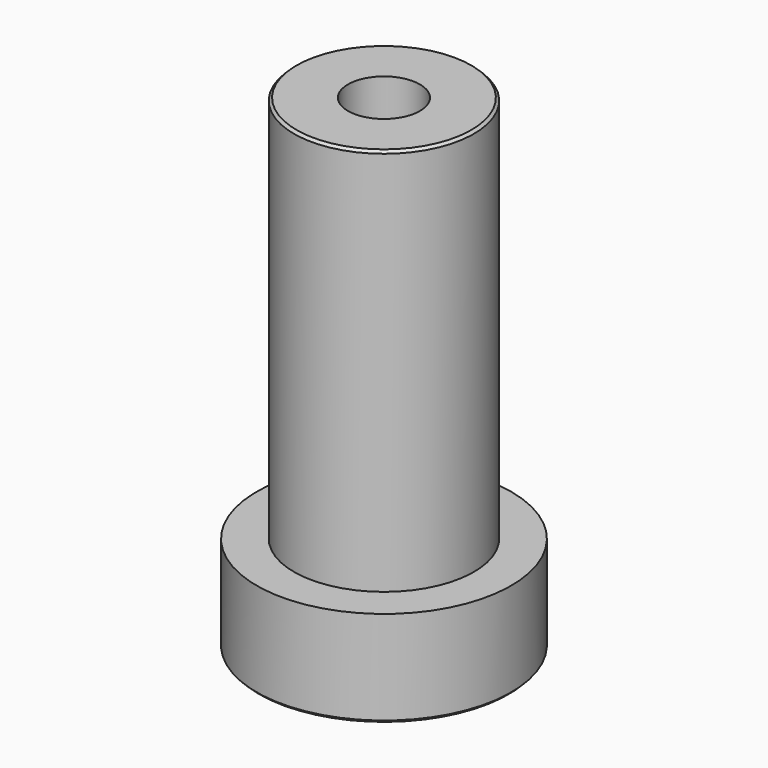
from build123d import *

# Parameters (mm, degrees)
F2_SIZE = 0.1


with BuildPart() as f1:
    # F0 (on Right) → F1 (revolve)
    with BuildSketch(Plane.YZ):
        Polygon((1.4, 18.85), (1.4, 2), (3, 0), (4.95, 0), (4.95, 3.75), (3.5, 3.75), (3.5, 18.85), align=None)
    revolve(axis=Axis((0, 0, 11.038248), (0, 0, 1)))

    # F2
    f2_edges = [f1.edges().sort_by_distance(p)[0] for p in [
        (0, -4.95, 0),
        (0, -3.5, 18.85),
    ]]
    chamfer(f2_edges, length=F2_SIZE)


solid = f1.part
